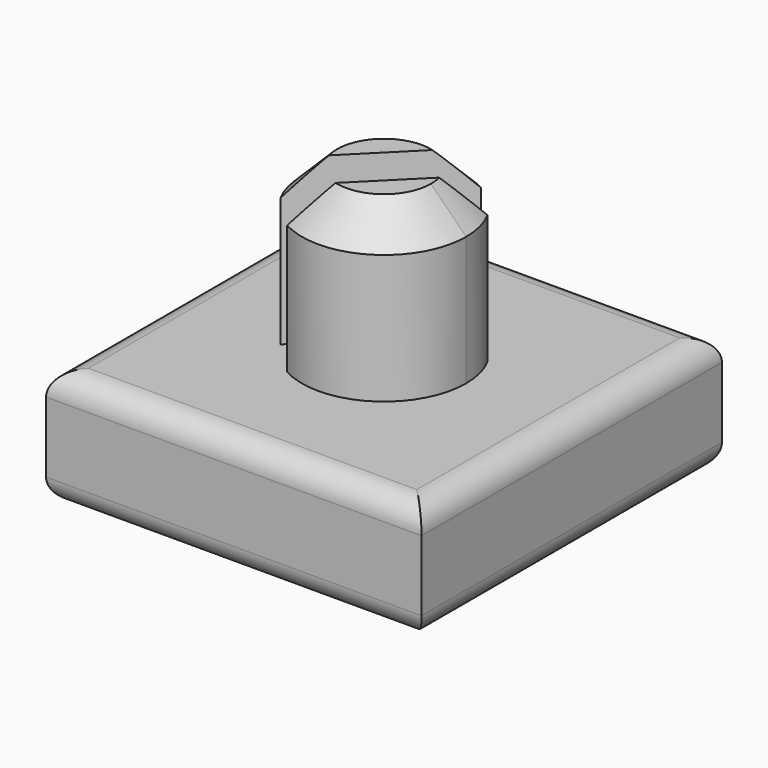
from build123d import *

# Parameters (mm, degrees)
F0_W     = 8
F0_H     = 8
F1_DEPTH = 2.5
F3_DEPTH = 3.5
F4_SIZE  = 0.75
F5_R     = 0.5


with BuildPart() as f1:
    # F0 (on Top) → F1 (new body)
    with BuildSketch(Plane.XY):
        with Locations((4, 4)):
            Rectangle(F0_W, F0_H)
    extrude(amount=F1_DEPTH)

    # F2 (on face) → F3 (join)
    with BuildSketch(Plane.XY.offset(2.5)):
        with BuildLine():
            Line((2.460592, 3.167699), (4.832301, 5.539408))
            ThreePointArc((4.832301, 5.539408), (2.762563, 5.237437), (2.460592, 3.167699))
        make_face()
        with BuildLine():
            ThreePointArc((3.167699, 2.460592), (4.896095, 2.496832), (5.75, 4))
            ThreePointArc((5.75, 4), (5.696535, 4.429265), (5.539408, 4.832301))
            Line((5.539408, 4.832301), (3.167699, 2.460592))
        make_face()
    extrude(amount=F3_DEPTH)

    # F4
    f4_edges = [f1.edges().sort_by_distance(p)[0] for p in [
        (5.237437, 2.762563, 6),
        (2.762563, 5.237437, 6),
    ]]
    chamfer(f4_edges, length=F4_SIZE)

    # F5
    f5_edges = [f1.edges().sort_by_distance(p)[0] for p in [
        (0, 4, 2.5),
        (4, 0, 2.5),
        (8, 4, 2.5),
        (4, 8, 2.5),
        (4, 8, 0),
        (8, 4, 0),
        (4, 0, 0),
        (0, 4, 0),
    ]]
    fillet(f5_edges, radius=F5_R)


solid = f1.part
